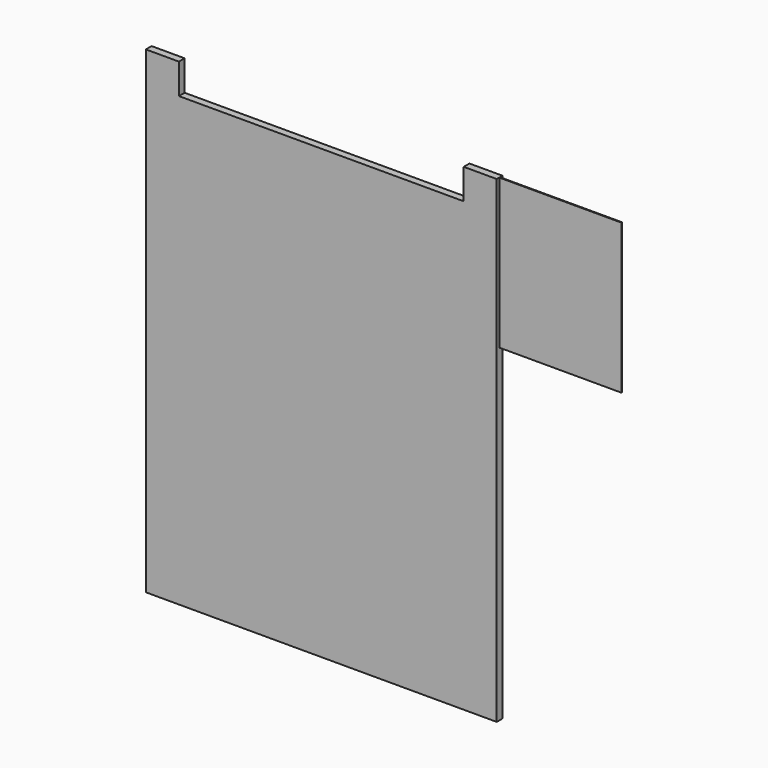
from build123d import *

# Parameters (mm, degrees)
F0_W     = 35.48
F0_H     = 43.47
F1_DEPTH = 0.125
F2_DEPTH = 1.045


with BuildPart() as f1:
    # F0 (on Front) → F1 (new body, symmetric)
    with BuildSketch(Plane.XZ):
        with Locations((68.685, 117.055)):
            Rectangle(F0_W, F0_H)
    extrude(amount=F1_DEPTH, both=True)

    # F0 (on Front) → F2 (join, symmetric)
    with BuildSketch(Plane.XZ):
        Polygon((-41.3521751761, 138.79), (-50.945, 138.79), (-50.945, 0), (50.945, 0), (50.945, 95.32), (50.945, 138.79), (41.3521751761, 138.79), (41.3521751761, 129.9796770382), (-41.3521751761, 129.9796770382), align=None)
    extrude(amount=F2_DEPTH, both=True)


solid = f1.part
